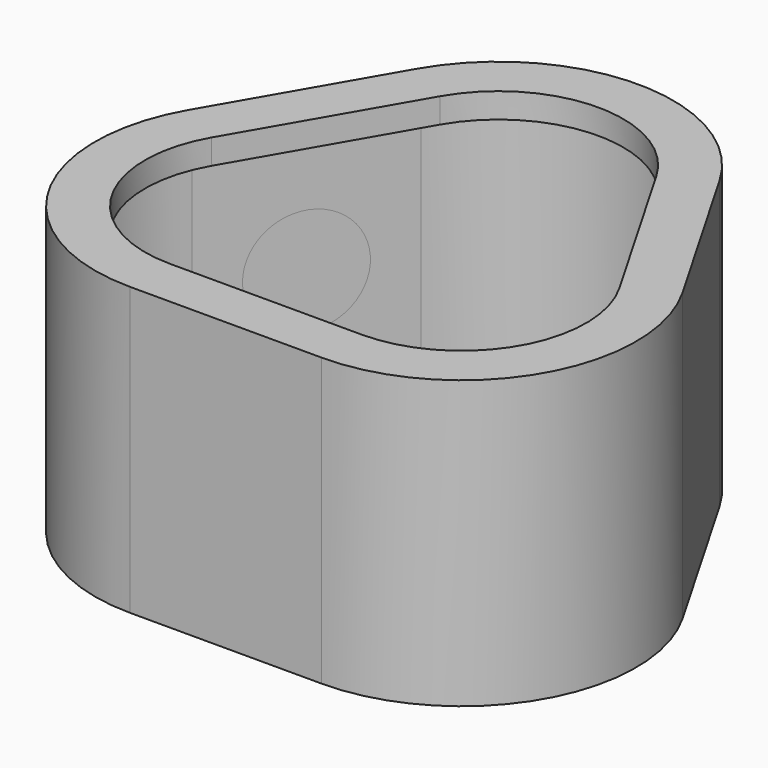
from build123d import *

# Parameters (mm, degrees)
F1_DEPTH = 25
F3_START = -0.65
F2_R     = 4.3
F3_DEPTH = 2.15
F6_DEPTH = 23
F7_R     = 33.55183595
F8_DEPTH = 2


with BuildPart() as f1:
    # F0 (on Top) → F1 (new body)
    with BuildSketch(Plane.XY):
        with BuildLine():
            ThreePointArc((7.6794919243, -4), (19.8038475773, 3), (19.8038475773, 17))
            Line((19.8038475773, 17), (12.124355653, 30.3012701892))
            ThreePointArc((12.124355653, 30.3012701892), (0, 37.3012701892), (-12.124355653, 30.3012701892))
            Line((-12.124355653, 30.3012701892), (-19.8038475773, 17))
            ThreePointArc((-19.8038475773, 17), (-19.8038475773, 3), (-7.6794919243, -4))
            Line((-7.6794919243, -4), (0, -4))
            Line((0, -4), (7.6794919243, -4))
        make_face()
        with BuildLine():
            Line((7.6794919243, 0), (0, 0))
            Line((0, 0), (-7.6794919243, 0))
            ThreePointArc((-7.6794919243, 0), (-16.3397459622, 5), (-16.3397459622, 15))
            Line((-16.3397459622, 15), (-8.6602540378, 28.3012701892))
            ThreePointArc((-8.6602540378, 28.3012701892), (0, 33.3012701892), (8.6602540378, 28.3012701892))
            Line((8.6602540378, 28.3012701892), (16.3397459622, 15))
            ThreePointArc((16.3397459622, 15), (16.3397459622, 5), (7.6794919243, 0))
        make_face(mode=Mode.SUBTRACT)
    extrude(amount=F1_DEPTH)

    # F2 (on face) → F3 (cut)
    with BuildSketch(Plane(origin=(-22.2141016151, 12.8253175473, 0), x_dir=(-0.5, -0.8660254038, 0), z_dir=(-0.8660254038, 0.5, 0)).offset(F3_START)):
        with Locations((-12.5, 12.5)):
            Circle(F2_R)
    extrude(amount=-F3_DEPTH, mode=Mode.SUBTRACT)

    # F5 (on face) → F6 (cut)
    with BuildSketch(Plane(origin=(0, 0, 0), x_dir=(1, 0, 0), z_dir=(0, 0, -1))):
        with BuildLine():
            Line((-19.2409310648, -16.675), (-11.5614391405, -29.9762701892))
            ThreePointArc((-11.5614391405, -29.9762701892), (0, -36.6512701892), (11.5614391405, -29.9762701892))
            Line((11.5614391405, -29.9762701892), (19.2409310648, -16.675))
            ThreePointArc((19.2409310648, -16.675), (19.2409310648, -3.325), (7.6794919243, 3.35))
            Line((7.6794919243, 3.35), (-7.6794919243, 3.35))
            ThreePointArc((-7.6794919243, 3.35), (-19.2409310648, -3.325), (-19.2409310648, -16.675))
        make_face()
    extrude(amount=-F6_DEPTH, mode=Mode.SUBTRACT)

    # F7 (on face) → F8 (cut)
    with BuildSketch(Plane(origin=(0, 0, 0), x_dir=(1, 0, 0), z_dir=(0, 0, -1))):
        with Locations((-1.2054177932, -16.7930107564)):
            Circle(F7_R)
    extrude(amount=-F8_DEPTH, mode=Mode.SUBTRACT)


solid = f1.part
